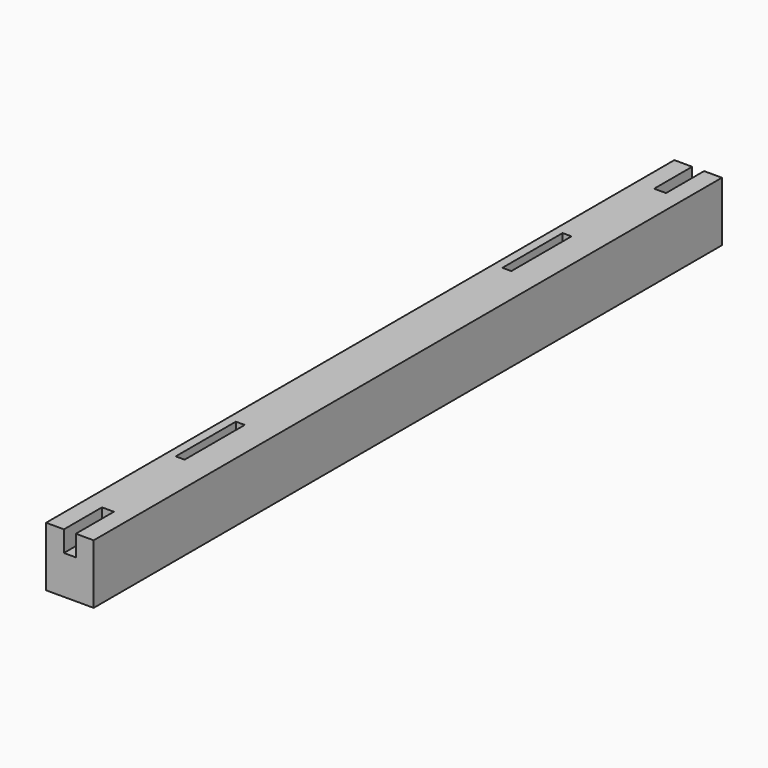
from build123d import *

# Parameters (mm, degrees)
F0_W     = 38.1
F0_H     = 321.1068
F0_W_2   = 50.8
F0_H_2   = 203.2
F1_DEPTH = 254
F2_DEPTH = 88.9


with BuildPart() as f1:
    # F0 (on Top) → F1 (new body)
    with BuildSketch(Plane.XY):
        Polygon((-25.4, 1676.4), (-101.6, 1676.4), (-101.6, -1676.4), (-25.4, -1676.4), (-25.4, -1473.2), (25.4, -1473.2), (25.4, -1676.4), (101.6, -1676.4), (101.6, 1676.4), (25.4, 1676.4), (25.4, 1473.2), (-25.4, 1473.2), align=None)
        with Locations((-44.45, -871.7534)):
            Rectangle(F0_W, F0_H, mode=Mode.SUBTRACT)
        with Locations((-44.45, 871.7534)):
            Rectangle(F0_W, F0_H, mode=Mode.SUBTRACT)
        with Locations((0, 1574.8)):
            Rectangle(F0_W_2, F0_H_2)
        with Locations((-44.45, 871.7534)):
            Rectangle(F0_W, F0_H)
        with Locations((-44.45, -871.7534)):
            Rectangle(F0_W, F0_H)
        with Locations((0, -1574.8)):
            Rectangle(F0_W_2, F0_H_2)
    extrude(amount=-F1_DEPTH)

    # F0 (on Top) → F2 (cut)
    with BuildSketch(Plane.XY):
        with Locations((0, -1574.8)):
            Rectangle(F0_W_2, F0_H_2)
        with Locations((-44.45, -871.7534)):
            Rectangle(F0_W, F0_H)
        with Locations((-44.45, 871.7534)):
            Rectangle(F0_W, F0_H)
        with Locations((0, 1574.8)):
            Rectangle(F0_W_2, F0_H_2)
    extrude(amount=-F2_DEPTH, mode=Mode.SUBTRACT)


solid = f1.part
